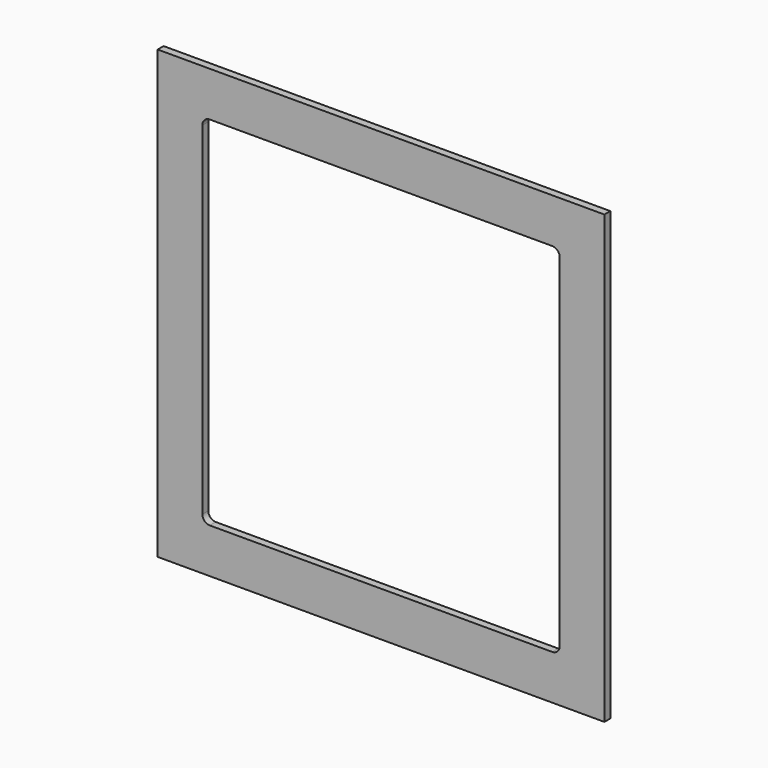
from build123d import *

# Parameters (mm, degrees)
F0_W     = 600
F0_H     = 600
F1_DEPTH = 10


with BuildPart() as f1:
    # F0 (on Front) → F1 (new body)
    with BuildSketch(Plane.XZ):
        with Locations((300, 300)):
            Rectangle(F0_W, F0_H)
        with BuildLine():
            ThreePointArc((60, 530), (62.928932, 537.071068), (70, 540))
            Line((70, 540), (530, 540))
            ThreePointArc((530, 540), (537.071068, 537.071068), (540, 530))
            Line((540, 530), (540, 70))
            ThreePointArc((540, 70), (537.071068, 62.928932), (530, 60))
            Line((530, 60), (70, 60))
            ThreePointArc((70, 60), (62.928932, 62.928932), (60, 70))
            Line((60, 70), (60, 530))
        make_face(mode=Mode.SUBTRACT)
    extrude(amount=F1_DEPTH)


solid = f1.part
